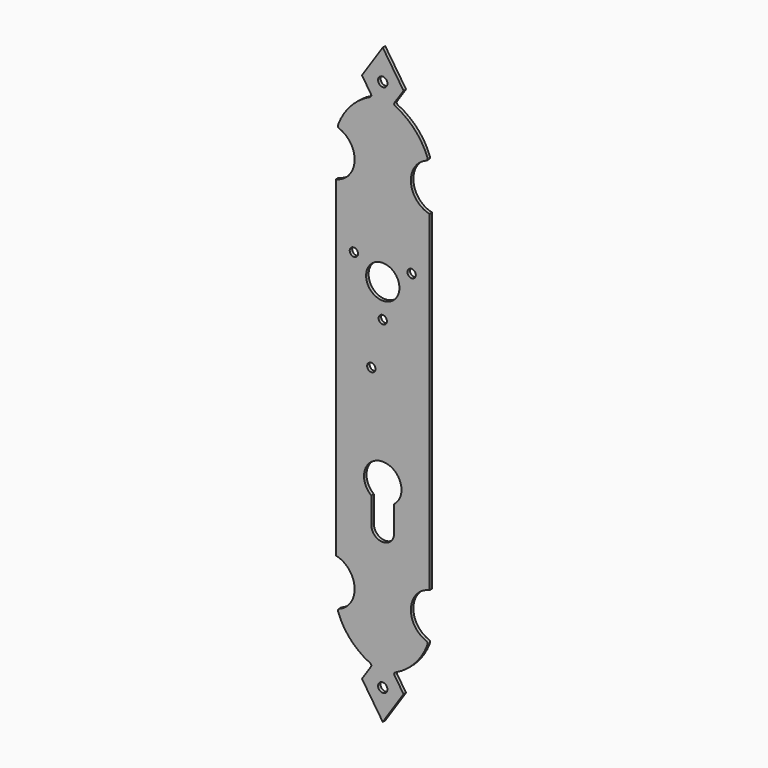
from build123d import *

# Parameters (mm, degrees)
F0_R     = 2.25
F0_R_2   = 2
F0_R_3   = 8
F1_DEPTH = 1.5
F2_R     = 2
F3_DEPTH = 1.5


with BuildPart() as f1:
    # F0 (on Front) → F1 (new body)
    with BuildSketch(Plane.XZ):
        with BuildLine():
            ThreePointArc((20.917298, -101.5), (13.529686, -89.911597), (22.5, -79.5))
            Line((22.5, -79.5), (22.5, 79.5))
            ThreePointArc((22.5, 79.5), (13.529686, 89.911597), (20.917298, 101.5))
            ThreePointArc((20.917298, 101.5), (21.471436, 102.020043), (21.5, 102.77945))
            ThreePointArc((21.5, 102.77945), (15.448865, 112.710734), (6.075523, 119.594561))
            ThreePointArc((6.075523, 119.594561), (5.536314, 120.232961), (5.670047, 121.057834))
            Line((5.670047, 121.057834), (10, 127.5))
            Line((10, 127.5), (0, 142.5))
            Line((0, 142.5), (-10, 127.5))
            Line((-10, 127.5), (-5.670047, 121.057834))
            ThreePointArc((-5.670047, 121.057834), (-5.536314, 120.232961), (-6.075523, 119.594561))
            ThreePointArc((-6.075523, 119.594561), (-15.448865, 112.710734), (-21.5, 102.77945))
            ThreePointArc((-21.5, 102.77945), (-21.471436, 102.020043), (-20.917298, 101.5))
            ThreePointArc((-20.917298, 101.5), (-13.529686, 89.911597), (-22.5, 79.5))
            Line((-22.5, 79.5), (-22.5, -79.5))
            ThreePointArc((-22.5, -79.5), (-13.529686, -89.911597), (-20.917298, -101.5))
            ThreePointArc((-20.917298, -101.5), (-21.471436, -102.020043), (-21.5, -102.77945))
            ThreePointArc((-21.5, -102.77945), (-15.448865, -112.710734), (-6.075523, -119.594561))
            ThreePointArc((-6.075523, -119.594561), (-5.536314, -120.232961), (-5.670047, -121.057834))
            Line((-5.670047, -121.057834), (-10, -127.5))
            Line((-10, -127.5), (0, -142.5))
            Line((0, -142.5), (10, -127.5))
            Line((10, -127.5), (5.670047, -121.057834))
            ThreePointArc((5.670047, -121.057834), (5.536314, -120.232961), (6.075523, -119.594561))
            ThreePointArc((6.075523, -119.594561), (15.448865, -112.710734), (21.5, -102.77945))
            ThreePointArc((21.5, -102.77945), (21.471436, -102.020043), (20.917298, -101.5))
        make_face()
        with Locations((0, -128)):
            Circle(F0_R, mode=Mode.SUBTRACT)
        with Locations((-13.856406, 51.5)):
            Circle(F0_R_2, mode=Mode.SUBTRACT)
        with Locations((0, 27.5)):
            Circle(F0_R_2, mode=Mode.SUBTRACT)
        with Locations((0, 43.5)):
            Circle(F0_R_3, mode=Mode.SUBTRACT)
        with Locations((13.856406, 51.5)):
            Circle(F0_R_2, mode=Mode.SUBTRACT)
        with Locations((0, 128)):
            Circle(F0_R, mode=Mode.SUBTRACT)
    extrude(amount=F1_DEPTH)

    # F2 (on face) → F3 (cut, through all)
    with BuildSketch(Plane.XZ.offset(1.5)):
        with BuildLine():
            Line((5.5, -61), (5.5, -48.623903))
            ThreePointArc((5.5, -48.623903), (0, -32.5), (-5.5, -48.623903))
            Line((-5.5, -48.623903), (-5.5, -61))
            ThreePointArc((-5.5, -61), (0, -66.5), (5.5, -61))
        make_face()
        with Locations((-5.5, 5.5)):
            Circle(F2_R)
    extrude(amount=-F3_DEPTH, mode=Mode.SUBTRACT)


solid = f1.part
